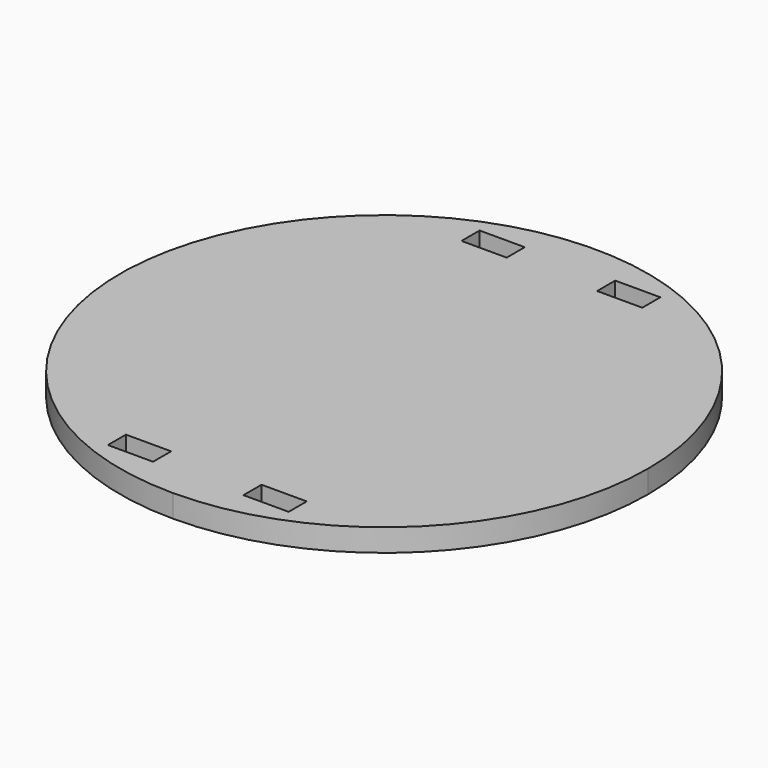
from build123d import *

# Parameters (mm, degrees)
F0_W     = 12.7
F0_H     = 6.35
F1_DEPTH = 6.35


with BuildPart() as f1:
    # F0 (on Top) → F1 (new body)
    with BuildSketch(Plane.XY):
        with BuildLine():
            ThreePointArc((0, -74.168), (52.444696, -52.444696), (74.168, 0))
            ThreePointArc((74.168, 0), (-52.444696, 52.444696), (0, -74.168))
        make_face()
        with Locations((-19.05, -62.103)):
            Rectangle(F0_W, F0_H, mode=Mode.SUBTRACT)
        with Locations((19.05, -62.103)):
            Rectangle(F0_W, F0_H, mode=Mode.SUBTRACT)
        with Locations((-19.05, 62.103)):
            Rectangle(F0_W, F0_H, mode=Mode.SUBTRACT)
        with Locations((19.05, 62.103)):
            Rectangle(F0_W, F0_H, mode=Mode.SUBTRACT)
    extrude(amount=F1_DEPTH)


solid = f1.part
